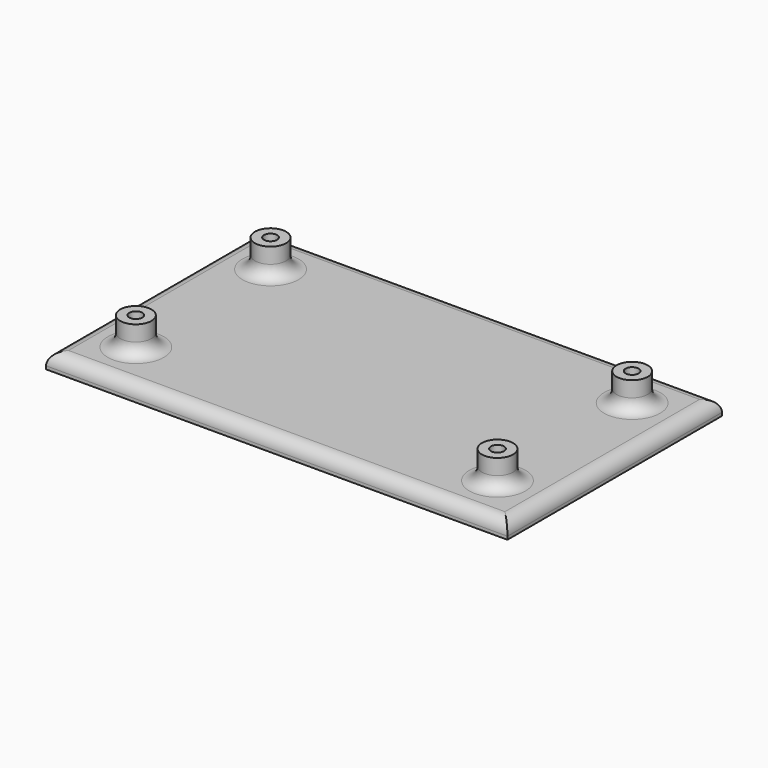
from build123d import *

# Parameters (mm, degrees)
SKETCH001_W  = 74
SKETCH001_H  = 43
SKETCH001_R  = 1.05
PAD_DEPTH    = 2.5
SKETCH_R     = 2.5
SKETCH_R_2   = 1.05
PAD001_DEPTH = 7
FILLET_R     = 2


with BuildPart() as part:
    # Sketch001 → Pad (new body)
    with BuildSketch(Plane.XY):
        Rectangle(SKETCH001_W, SKETCH001_H)
        with Locations((-29, -13.5)):
            Circle(SKETCH001_R, mode=Mode.SUBTRACT)
        with Locations((29, -13.5)):
            Circle(SKETCH001_R, mode=Mode.SUBTRACT)
        with Locations((29, 13.5)):
            Circle(SKETCH001_R, mode=Mode.SUBTRACT)
        with Locations((-29, 13.5)):
            Circle(SKETCH001_R, mode=Mode.SUBTRACT)
    extrude(amount=PAD_DEPTH)

    # Sketch → Pad001 (join)
    with BuildSketch(Plane.XY):
        with Locations((-29, 13.5)):
            Circle(SKETCH_R)
        with Locations((-29, 13.5)):
            Circle(SKETCH_R_2, mode=Mode.SUBTRACT)
        with Locations((-29, -13.5)):
            Circle(SKETCH_R)
        with Locations((-29, -13.5)):
            Circle(SKETCH_R_2, mode=Mode.SUBTRACT)
        with Locations((29, -13.5)):
            Circle(SKETCH_R)
        with Locations((29, -13.5)):
            Circle(SKETCH_R_2, mode=Mode.SUBTRACT)
        with Locations((29, 13.5)):
            Circle(SKETCH_R)
        with Locations((29, 13.5)):
            Circle(SKETCH_R_2, mode=Mode.SUBTRACT)
    extrude(amount=PAD001_DEPTH)

    # Fillet
    fillet_edges = [part.edges().sort_by_distance(p)[0] for p in [
        (-37, 0, 2.5),
        (0, 21.5, 2.5),
        (0, -21.5, 2.5),
        (37, 0, 2.5),
        (-31.5, -13.5, 2.5),
        (26.5, -13.5, 2.5),
        (-31.5, 13.5, 2.5),
        (26.5, 13.5, 2.5),
    ]]
    fillet(fillet_edges, radius=FILLET_R)


solid = part.part
